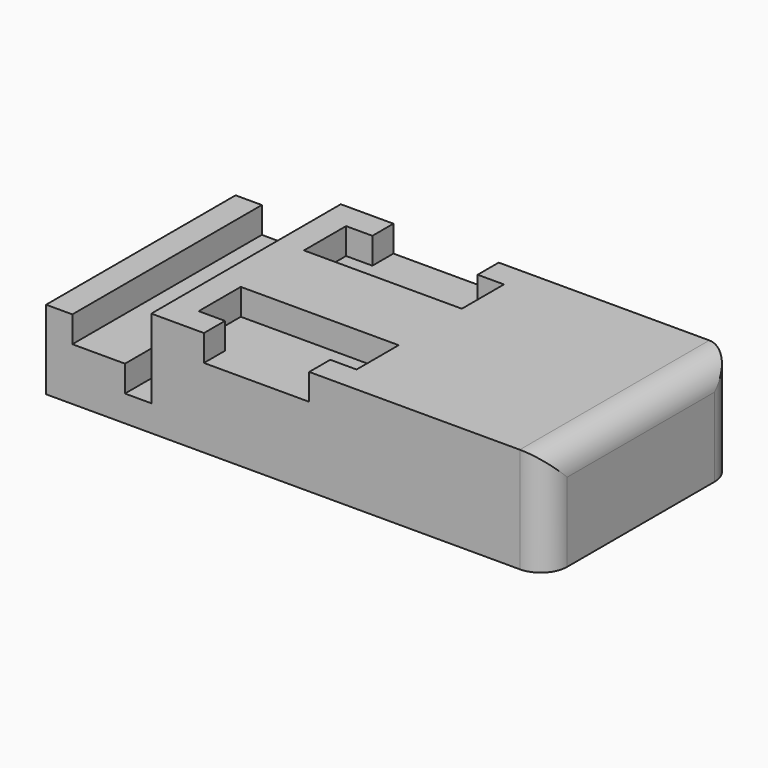
from build123d import *

# Parameters (mm, degrees)
F0_W     = 4.99
F0_H     = 45
F1_DEPTH = 14.99
F0_W_2   = 10
F2_DEPTH = 10
F0_W_3   = 5
F3_DEPTH = 5
F4_DEPTH = 20
F6_DEPTH = 5
F8_DEPTH = 10
F9_R     = 5


with BuildPart() as f1:
    # F0 (on Top) → F1 (new body)
    with BuildSketch(Plane.XY):
        with Locations((-45.005, 0)):
            Rectangle(F0_W, F0_H)
    extrude(amount=F1_DEPTH)

    # F0 (on Top) → F2 (join)
    with BuildSketch(Plane.XY):
        with Locations((-37.51, 0)):
            Rectangle(F0_W_2, F0_H)
    extrude(amount=F2_DEPTH)

    # F0 (on Top) → F3 (join)
    with BuildSketch(Plane.XY):
        with Locations((-30.01, 0)):
            Rectangle(F0_W_3, F0_H)
    extrude(amount=F3_DEPTH)

    # F0 (on Top) → F4 (join)
    with BuildSketch(Plane.XY):
        Polygon((47.5, 0), (47.5, 22.5), (-27.51, 22.5), (-27.51, -22.5), (47.5, -22.5), align=None)
    extrude(amount=F4_DEPTH)

    # F5 (on face) → F6 (cut)
    with BuildSketch(Plane.XY.offset(20)):
        Polygon((-17.51, -22.5), (2.49, -22.5), (2.49, -17.5), (7.49, -17.5), (7.49, -7.5), (-22.51, -7.5), (-22.51, -12.5), (-22.51, -17.5), (-17.51, -17.5), align=None)
        Polygon((2.49, 17.5), (2.49, 22.5), (-17.51, 22.5), (-17.51, 17.5), (-22.51, 17.5), (-22.51, 7.5), (7.49, 7.5), (7.49, 17.5), align=None)
    extrude(amount=-F6_DEPTH, mode=Mode.SUBTRACT)

    # F7 (on face) → F8 (cut)
    with BuildSketch(Plane.XY):
        Polygon((22.5, -2.5), (27.5, -2.5), (27.5, 0), (27.5, 2.5), (22.5, 2.5), align=None)
    extrude(amount=F8_DEPTH, mode=Mode.SUBTRACT)

    # F9
    f9_edges = [f1.edges().sort_by_distance(p)[0] for p in [
        (47.5, 0, 20),
        (47.5, 22.5, 10),
        (47.5, -22.5, 10),
    ]]
    fillet(f9_edges, radius=F9_R)


solid = f1.part
